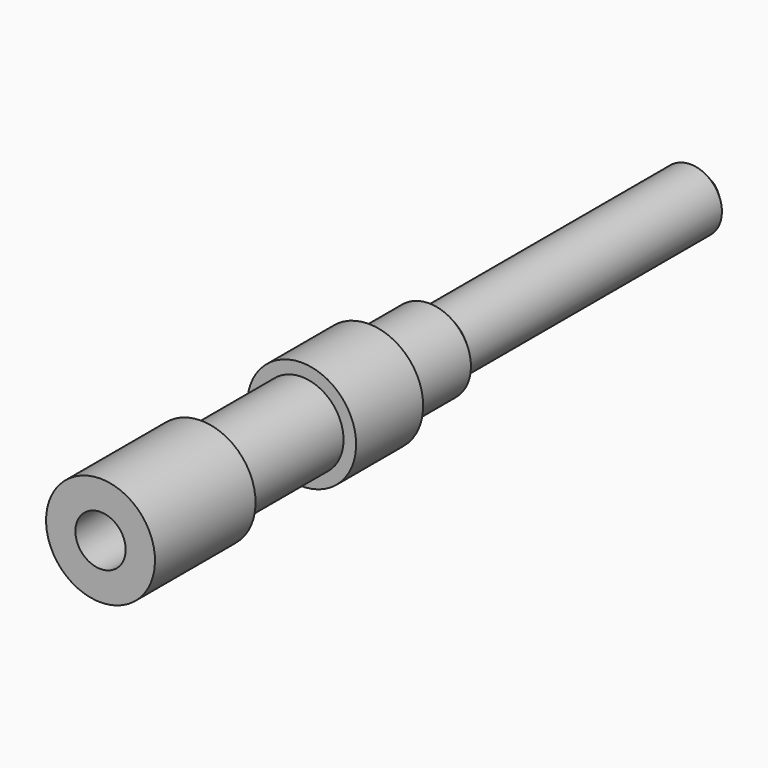
from build123d import *

# Parameters (mm, degrees)
F2_SIZE  = 0.4
F3_SIZE  = 0.2
F4_R     = 0.6
F5_DEPTH = 8


with BuildPart() as f1:
    # F0 (on Right) → F1 (revolve)
    with BuildSketch(Plane.YZ):
        Polygon((0, 1.3), (0, 0), (18, 0), (18, 0.75), (10, 0.75), (10, 1), (8, 1), (8, 1.3), (6, 1.3), (6, 1), (3, 1), (3, 1.3), align=None)
    revolve(axis=Axis((0, 9, 0), (0, -1, 0)))

    # F2
    f2_edges = [f1.edges().sort_by_distance(p)[0] for p in [
        (0, 18, -0.75),
    ]]
    chamfer(f2_edges, length=F2_SIZE)

    # F3
    f3_edges = [f1.edges().sort_by_distance(p)[0] for p in [
        (0, 10, -1),
    ]]
    chamfer(f3_edges, length=F3_SIZE)

    # F4 (on face) → F5 (cut)
    with BuildSketch(Plane.XZ):
        Circle(F4_R)
    extrude(amount=-F5_DEPTH, mode=Mode.SUBTRACT)


solid = f1.part
